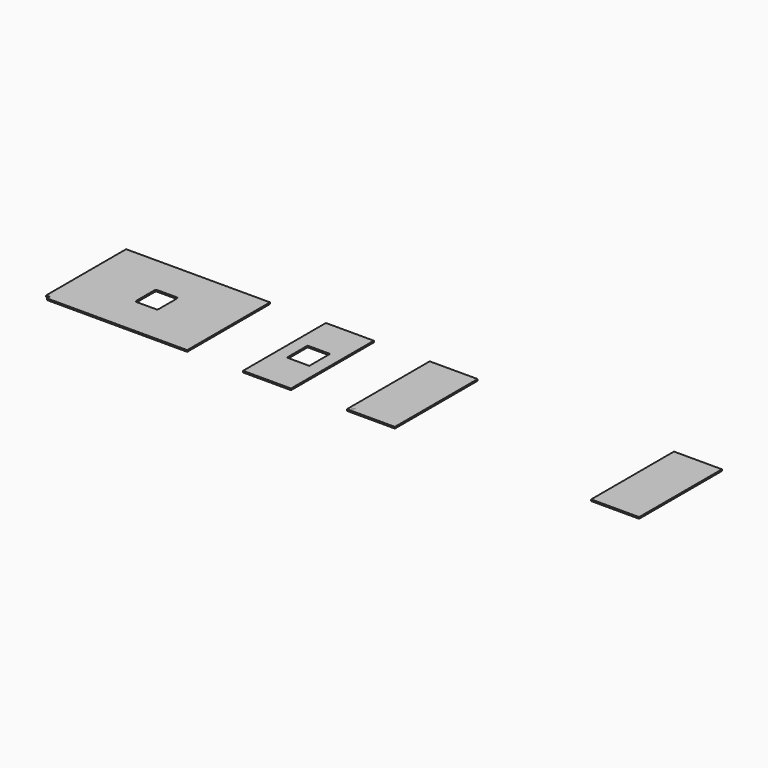
from build123d import *

# Parameters (mm, degrees)
F0_W      = 260
F0_H      = 300
F1_DEPTH  = 18
F5_W      = 556
F5_H      = 1200
F6_DEPTH  = 25
F7_W      = 1112
F7_H      = 1200
F7_W_2    = 260
F7_H_2    = 300
F8_DEPTH  = 25
F9_W      = 260
F9_H      = 300
F10_DEPTH = 25
F11_R     = 20
F13_DEPTH = 18
F15_DEPTH = 18


with BuildPart() as f1:
    # F0 (on Top) → F1 (new body)
    with BuildSketch(Plane.XY):
        Polygon((834, -600), (834, 600), (-834, 600), (-834, -560), (-794, -560), (-794, -600), align=None)
        Rectangle(F0_W, F0_H, mode=Mode.SUBTRACT)
    extrude(amount=F1_DEPTH)


with BuildPart() as f2_1:
    # F2: copy of F1
    add(f1.part.moved(Location((1760, 0, 0))))


with BuildPart() as f3_1:
    # F3: copy of F2_1
    add(f2_1.part.moved(Location((1760, 0, 0))))


with BuildPart() as f4_1:
    # F4: copy of F3_1
    add(f3_1.part.moved(Location((1720, 0, 0))))

    # F9 (on face) → F10 (cut)
    with BuildSketch(Plane.XY.offset(18)):
        Polygon((5518, 600), (4406, 600), (4406, -560), (4446, -560), (4446, -600), (5518, -600), align=None)
        with Locations((5240, 0)):
            Rectangle(F9_W, F9_H, mode=Mode.SUBTRACT)
    extrude(amount=-F10_DEPTH, mode=Mode.SUBTRACT)


with BuildPart() as f2_1_1:
    add(f2_1.part)

    # F5 (on face) → F6 (cut)
    with BuildSketch(Plane.XY.offset(18)):
        Polygon((1482, 600), (926, 600), (926, -560), (966, -560), (966, -600), (1482, -600), align=None)
        with Locations((2316, 0)):
            Rectangle(F5_W, F5_H)
    extrude(amount=-F6_DEPTH, mode=Mode.SUBTRACT)


with BuildPart() as f3_1_1:
    add(f3_1.part)

    # F7 (on face) → F8 (cut)
    with BuildSketch(Plane.XY.offset(18)):
        with Locations((3798, 0)):
            Rectangle(F7_W, F7_H)
        with Locations((3520, 0)):
            Rectangle(F7_W_2, F7_H_2, mode=Mode.SUBTRACT)
    extrude(amount=-F8_DEPTH, mode=Mode.SUBTRACT)


with BuildPart() as f1_1:
    add(f1.part)

    # F11
    f11_edges = [f1_1.edges().sort_by_distance(p)[0] for p in [
        (-130, 150, 9),
        (-130, -150, 9),
        (130, -150, 9),
        (130, 150, 9),
    ]]
    fillet(f11_edges, radius=F11_R)


with BuildPart() as f13:
    # F12 (on face) → F13 (new body, through all)
    with BuildSketch(Plane.XY.offset(18)):
        Polygon((2721.7573593129, -560), (2686, -560), (2686, -600), (2726, -600), (2726, -564.2426406871), (2726, -560), align=None)
        with BuildLine():
            Line((2735.8994949366, -545.8578643763), (2721.7573593129, -560))
            Line((2721.7573593129, -560), (2726, -560))
            Line((2726, -560), (2726, -564.2426406871))
            Line((2726, -564.2426406871), (2740.1421356237, -550.1005050634))
            ThreePointArc((2740.1421356237, -550.1005050634), (2740.1421356237, -545.8578643763), (2735.8994949366, -545.8578643763))
        make_face()
    extrude(amount=-F13_DEPTH)


with BuildPart() as f3_1_2:
    add(f3_1_1.part)

    # F14: cut F13
    add(f13.part, mode=Mode.SUBTRACT)


with BuildPart() as f15:
    # F12 (on face) → F15 (new body, through all)
    with BuildSketch(Plane.XY.offset(18)):
        Polygon((2721.7573593129, -560), (2686, -560), (2686, -600), (2726, -600), (2726, -564.2426406871), (2726, -560), align=None)
        with BuildLine():
            Line((2735.8994949366, -545.8578643763), (2721.7573593129, -560))
            Line((2721.7573593129, -560), (2726, -560))
            Line((2726, -560), (2726, -564.2426406871))
            Line((2726, -564.2426406871), (2740.1421356237, -550.1005050634))
            ThreePointArc((2740.1421356237, -550.1005050634), (2740.1421356237, -545.8578643763), (2735.8994949366, -545.8578643763))
        make_face()
    extrude(amount=-F15_DEPTH)


solid = Compound([f4_1.part, f2_1_1.part, f1_1.part, f3_1_2.part, f15.part])
